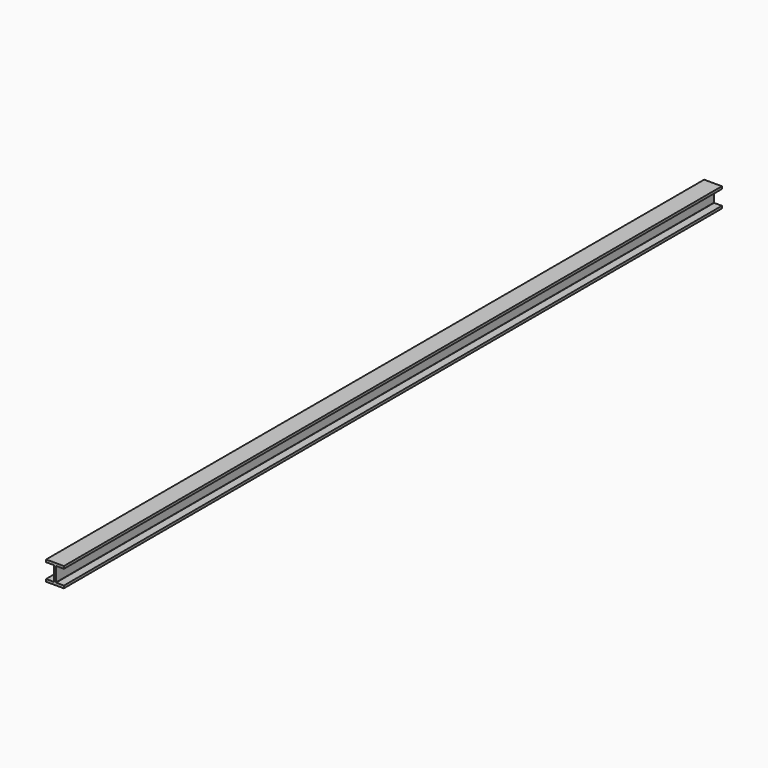
from build123d import *

# Parameters (mm, degrees)
F1_DEPTH = 8509


with BuildPart() as f1:
    # F0 (on Front) → F1 (new body)
    with BuildSketch(Plane.XZ):
        with BuildLine():
            Line((92.075, -101.6), (92.075, -76.2))
            Line((92.075, -76.2), (12.065, -76.2))
            ThreePointArc((12.065, -76.2), (10.268949, -75.456051), (9.525, -73.66))
            Line((9.525, -73.66), (9.525, 73.66))
            ThreePointArc((9.525, 73.66), (10.268949, 75.456051), (12.065, 76.2))
            Line((12.065, 76.2), (92.075, 76.2))
            Line((92.075, 76.2), (92.075, 101.6))
            Line((92.075, 101.6), (-92.075, 101.6))
            Line((-92.075, 101.6), (-92.075, 76.2))
            Line((-92.075, 76.2), (-12.065, 76.2))
            ThreePointArc((-12.065, 76.2), (-10.268949, 75.456051), (-9.525, 73.66))
            Line((-9.525, 73.66), (-9.525, -73.66))
            ThreePointArc((-9.525, -73.66), (-10.268949, -75.456051), (-12.065, -76.2))
            Line((-12.065, -76.2), (-92.075, -76.2))
            Line((-92.075, -76.2), (-92.075, -101.6))
            Line((-92.075, -101.6), (92.075, -101.6))
        make_face()
    extrude(amount=F1_DEPTH)


solid = f1.part
